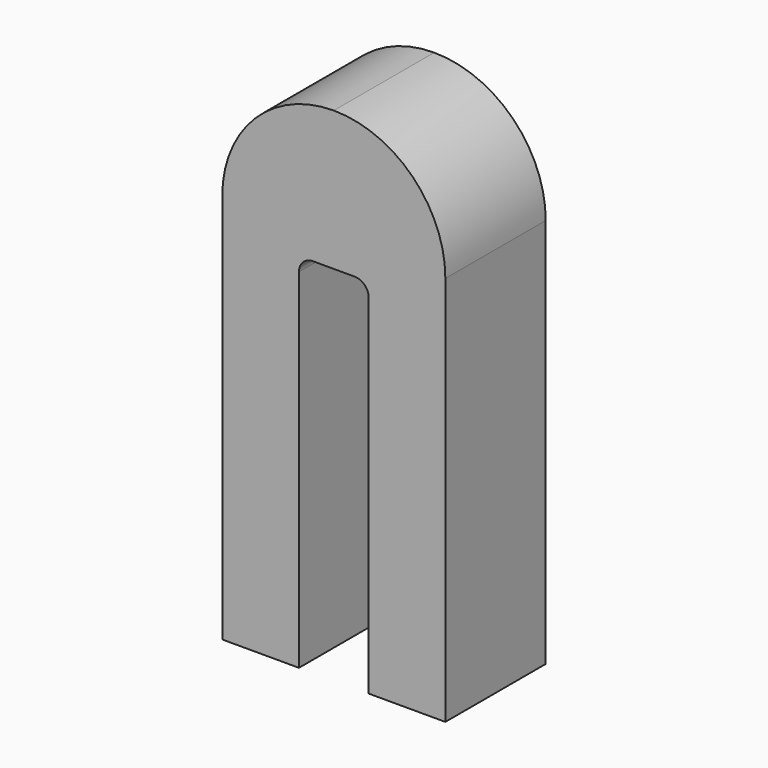
from build123d import *

# Parameters (mm, degrees)
F1_DEPTH = 45


with BuildPart() as f1:
    # F0 (on Front) → F1 (new body)
    with BuildSketch(Plane.XZ):
        with BuildLine():
            Line((12.5, -90), (40, -90))
            Line((40, -90), (40, 50))
            ThreePointArc((40, 50), (28.284271, 78.284271), (0, 90))
            ThreePointArc((0, 90), (-28.284271, 78.284271), (-40, 50))
            Line((-40, 50), (-40, -90))
            Line((-40, -90), (-12.5, -90))
            Line((-12.5, -90), (-12.5, 35))
            ThreePointArc((-12.5, 35), (-11.035534, 38.535534), (-7.5, 40))
            Line((-7.5, 40), (7.5, 40))
            ThreePointArc((7.5, 40), (11.035534, 38.535534), (12.5, 35))
            Line((12.5, 35), (12.5, -90))
        make_face()
    extrude(amount=F1_DEPTH)


solid = f1.part
